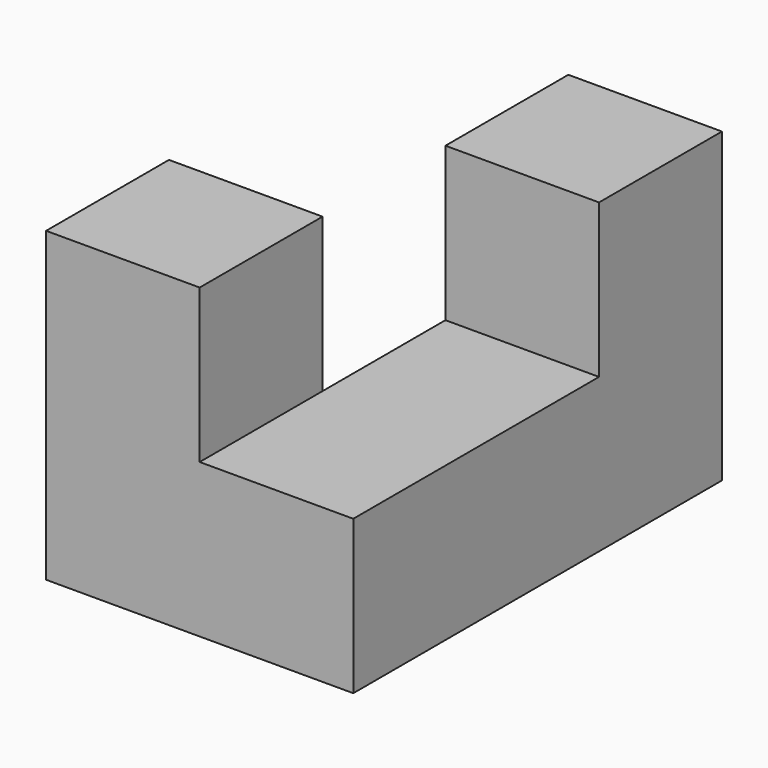
from build123d import *

# Parameters (mm, degrees)
F1_DEPTH = 10
F3_DEPTH = 10


with BuildPart() as f1:
    # F0 (on Front) → F1 (new body)
    with BuildSketch(Plane.XZ):
        Polygon((-10, 20), (-20, 20), (-20, 0), (0, 0), (0, 10), (-10, 10), align=None)
    extrude(amount=F1_DEPTH)

    # F2 (on Right) → F3 (join)
    with BuildSketch(Plane.YZ):
        Polygon((0, 10), (0, 0), (20, 0), (20, 20), (10, 20), (10, 10), align=None)
    extrude(amount=-F3_DEPTH)


solid = f1.part
